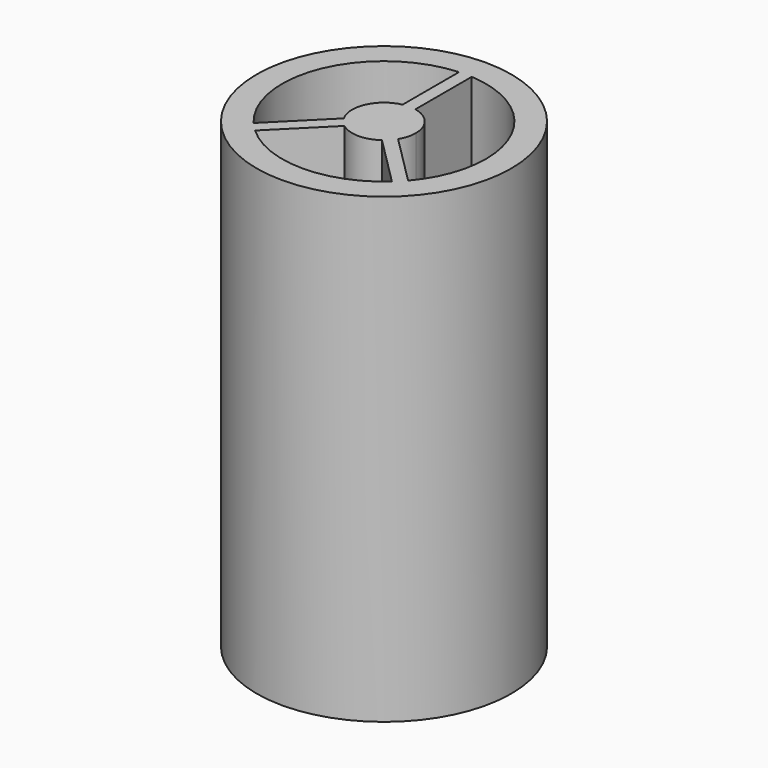
from build123d import *

# Parameters (mm, degrees)
F0_R     = 10
F1_DEPTH = 36.308


with BuildPart() as f1:
    # F0 (on Top) → F1 (new body)
    with BuildSketch(Plane.XY):
        with Locations((-18.9609453082, 10.0360149518)):
            Circle(F0_R)
        with BuildLine():
            Line((-18.4589009732, 19.109684974), (-18.4589009732, 18.0202463791))
            ThreePointArc((-18.4589009732, 18.0202463791), (-13.1292922544, 15.5124939903), (-10.9609453082, 10.0360149518))
            ThreePointArc((-10.9609453082, 10.0360149518), (-11.4601860694, 7.2541790758), (-12.8955980184, 4.8195446648))
            Line((-12.8955980184, 4.8195446648), (-12.106724124, 4.0306707704))
            Line((-12.106724124, 4.0306707704), (-12.8138309051, 3.3235639892))
            Line((-12.8138309051, 3.3235639892), (-13.5938261014, 4.1035591854))
            ThreePointArc((-13.5938261014, 4.1035591854), (-18.9962106116, 2.0360926797), (-24.3801578833, 4.1511075552))
            Line((-24.3801578833, 4.1511075552), (-25.3775505817, 3.1537148568))
            Line((-25.3775505817, 3.1537148568), (-26.0846573629, 3.860821638))
            Line((-26.0846573629, 3.860821638), (-25.0721433913, 4.8733356096))
            ThreePointArc((-25.0721433913, 4.8733356096), (-26.3184059511, 13.1773160975), (-19.4589009732, 18.0205024216))
            Line((-19.4589009732, 18.0205024216), (-19.4589009732, 19.109684974))
            Line((-19.4589009732, 19.109684974), (-18.4589009732, 19.109684974))
        make_face(mode=Mode.SUBTRACT)
        with BuildLine():
            ThreePointArc((-19.4589009732, 12.4859211042), (-18.9588588175, 12.5360140811), (-18.4589009732, 12.4850865076))
            Line((-18.4589009732, 12.4850865076), (-18.4589009732, 18.0202463791))
            ThreePointArc((-18.4589009732, 18.0202463791), (-18.9588969686, 18.0360146895), (-19.4589009732, 18.0205024216))
            Line((-19.4589009732, 18.0205024216), (-19.4589009732, 12.4859211042))
        make_face()
        with BuildLine():
            ThreePointArc((-19.4589009732, 18.0205024216), (-18.9588969686, 18.0360146895), (-18.4589009732, 18.0202463791))
            Line((-18.4589009732, 18.0202463791), (-18.4589009732, 19.109684974))
            Line((-18.4589009732, 19.109684974), (-19.4589009732, 19.109684974))
            Line((-19.4589009732, 19.109684974), (-19.4589009732, 18.0205024216))
        make_face()
        with BuildLine():
            Line((-18.4589009732, 11.2459333614), (-18.4589009732, 12.4850865076))
            ThreePointArc((-18.4589009732, 12.4850865076), (-18.9588588175, 12.5360140811), (-19.4589009732, 12.4859211042))
            Line((-19.4589009732, 12.4859211042), (-19.4589009732, 11.2459333614))
            Line((-19.4589009732, 11.2459333614), (-18.4589009732, 11.2459333614))
        make_face()
        with BuildLine():
            ThreePointArc((-16.8204497103, 8.7443963567), (-16.5524977797, 9.3656564637), (-16.4609453082, 10.0360149518))
            ThreePointArc((-16.4609453082, 10.0360149518), (-17.0237939412, 11.6163454809), (-18.4589009732, 12.4850865076))
            Line((-18.4589009732, 12.4850865076), (-18.4589009732, 11.2459333614))
            Line((-18.4589009732, 11.2459333614), (-19.4589009732, 11.2459333614))
            Line((-19.4589009732, 11.2459333614), (-19.4589009732, 12.4859211042))
            ThreePointArc((-19.4589009732, 12.4859211042), (-21.2351885371, 11.0741949631), (-21.1381662312, 8.8073127697))
            Line((-21.1381662312, 8.8073127697), (-20.4958576295, 9.4496213715))
            Line((-20.4958576295, 9.4496213715), (-19.7887508483, 8.7425145903))
            Line((-19.7887508483, 8.7425145903), (-20.4804626093, 8.0508028292))
            ThreePointArc((-20.4804626093, 8.0508028292), (-18.9965546301, 7.5362685694), (-17.4985924868, 8.0083255708))
            Line((-17.4985924868, 8.0083255708), (-18.2611958015, 8.7709288855))
            Line((-18.2611958015, 8.7709288855), (-17.5540890203, 9.4780356667))
            Line((-17.5540890203, 9.4780356667), (-16.8204497103, 8.7443963567))
        make_face()
        with BuildLine():
            ThreePointArc((-17.4985924868, 8.0083255708), (-17.1223101531, 8.3420784812), (-16.8204497103, 8.7443963567))
            Line((-16.8204497103, 8.7443963567), (-17.5540890203, 9.4780356667))
            Line((-17.5540890203, 9.4780356667), (-18.2611958015, 8.7709288855))
            Line((-18.2611958015, 8.7709288855), (-17.4985924868, 8.0083255708))
        make_face()
        with BuildLine():
            ThreePointArc((-20.4804626093, 8.0508028292), (-20.8476210082, 8.3957543618), (-21.1381662312, 8.8073127697))
            Line((-21.1381662312, 8.8073127697), (-25.0721433913, 4.8733356096))
            ThreePointArc((-25.0721433913, 4.8733356096), (-24.7374490801, 4.5013962501), (-24.3801578833, 4.1511075552))
            Line((-24.3801578833, 4.1511075552), (-20.4804626093, 8.0508028292))
        make_face()
        with BuildLine():
            Line((-20.4958576295, 9.4496213715), (-21.1381662312, 8.8073127697))
            ThreePointArc((-21.1381662312, 8.8073127697), (-20.8476210082, 8.3957543618), (-20.4804626093, 8.0508028292))
            Line((-20.4804626093, 8.0508028292), (-19.7887508483, 8.7425145903))
            Line((-19.7887508483, 8.7425145903), (-20.4958576295, 9.4496213715))
        make_face()
        with BuildLine():
            ThreePointArc((-24.3801578833, 4.1511075552), (-24.7374490801, 4.5013962501), (-25.0721433913, 4.8733356096))
            Line((-25.0721433913, 4.8733356096), (-26.0846573629, 3.860821638))
            Line((-26.0846573629, 3.860821638), (-25.3775505817, 3.1537148568))
            Line((-25.3775505817, 3.1537148568), (-24.3801578833, 4.1511075552))
        make_face()
        with BuildLine():
            Line((-12.8955980184, 4.8195446648), (-16.8204497103, 8.7443963567))
            ThreePointArc((-16.8204497103, 8.7443963567), (-17.1223101531, 8.3420784812), (-17.4985924868, 8.0083255708))
            Line((-17.4985924868, 8.0083255708), (-13.5938261014, 4.1035591854))
            ThreePointArc((-13.5938261014, 4.1035591854), (-13.2335129559, 4.4506305738), (-12.8955980184, 4.8195446648))
        make_face()
        with BuildLine():
            Line((-12.106724124, 4.0306707704), (-12.8955980184, 4.8195446648))
            ThreePointArc((-12.8955980184, 4.8195446648), (-13.2335129559, 4.4506305738), (-13.5938261014, 4.1035591854))
            Line((-13.5938261014, 4.1035591854), (-12.8138309051, 3.3235639892))
            Line((-12.8138309051, 3.3235639892), (-12.106724124, 4.0306707704))
        make_face()
    extrude(amount=F1_DEPTH)


solid = f1.part
